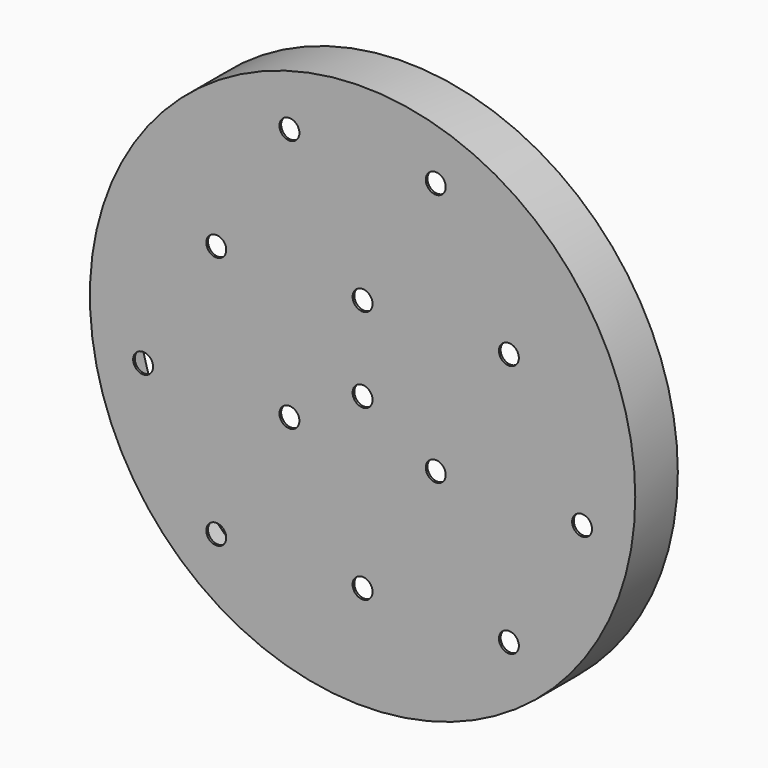
from build123d import *

# Parameters (mm, degrees)
F2_R     = 4.7625
F3_DEPTH = 1.017


with BuildPart() as f1:
    # F0 (on Top) → F1 (revolve)
    with BuildSketch(Plane.XY):
        Polygon((0, 1.016), (0, 0), (130.175, 0), (130.175, 25.4), (129.159, 25.4), (129.159, 1.016), align=None)
    revolve(axis=Axis((0, 0.508, 0), (0, 1, 0)))

    # F2 (on face) → F3 (cut, through all)
    with BuildSketch(Plane(origin=(0, 1.016, 0), x_dir=(-1, 0, 0), z_dir=(0, 1, 0))):
        Circle(F2_R)
        with Locations((-69.85, 40.327916)):
            Circle(F2_R)
        with Locations((-34.925, -20.163958)):
            Circle(F2_R)
        with Locations((34.925, -20.163958)):
            Circle(F2_R)
        with Locations((0, 40.327916)):
            Circle(F2_R)
        with Locations((-34.925, 100.819791)):
            Circle(F2_R)
        with Locations((-104.775, -20.163958)):
            Circle(F2_R)
        with Locations((34.925, 100.819791)):
            Circle(F2_R)
        with Locations((69.85, 40.327916)):
            Circle(F2_R)
        with Locations((0, -80.655833)):
            Circle(F2_R)
        with Locations((-69.85, -80.655833)):
            Circle(F2_R)
        with Locations((69.85, -80.655833)):
            Circle(F2_R)
        with Locations((104.775, -20.163958)):
            Circle(F2_R)
    extrude(amount=-F3_DEPTH, mode=Mode.SUBTRACT)


solid = f1.part
